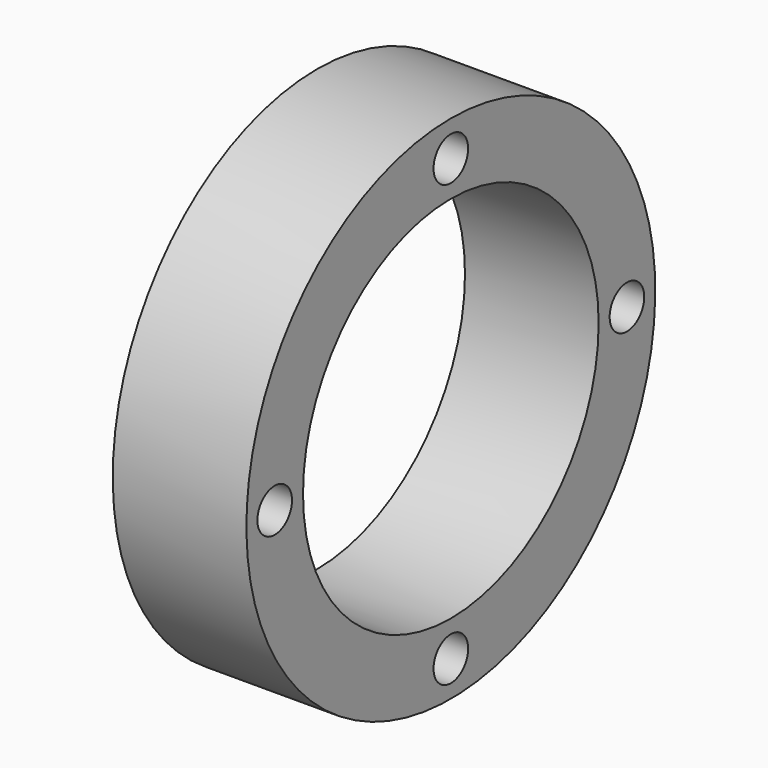
from build123d import *

# Parameters (mm, degrees)
F0_W = 17
F0_H = 9
F3_D = 5.5


with BuildPart() as f1:
    # F0 (on Front) → F1 (revolve)
    with BuildSketch(Plane.XZ):
        with Locations((8.5, 28)):
            Rectangle(F0_W, F0_H)
    revolve(axis=Axis((1.6395361068, 0, 0), (1, 0, 0)))

    # F3 (through all)
    with Locations(Plane(origin=(0, 0, 0), x_dir=(0, -1, 0), z_dir=(-1, 0, 0))):
        with Locations((0, 28), (28, 0), (0, -28), (-28, 0)):
            Hole(F3_D / 2)


solid = f1.part
